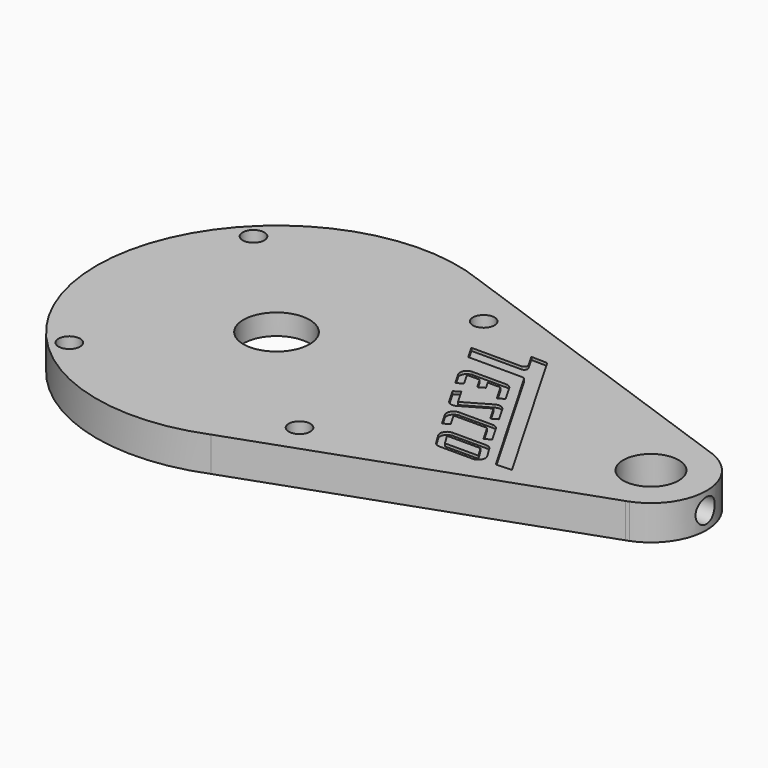
from build123d import *

# Parameters (mm, degrees)
F1_DEPTH  = 15.875
F3_DEPTH  = 15.876
F4_R      = 15.1511
F5_DEPTH  = 15.876
F6_R      = 57.277
F7_DEPTH  = 6.35
F8_R      = 4.953
F9_DEPTH  = 15.876
F11_DEPTH = 9.525
F13_R     = 5.4864
F14_DEPTH = 15.875
F16_DEPTH = 1.27


with BuildPart() as f1:
    # F0 (on Top) → F1 (new body)
    with BuildSketch(Plane.XY):
        with BuildLine():
            Line((261.564905, -58.477244), (113.604486, -6.008632))
            ThreePointArc((113.604486, -6.008632), (0, -82.6643), (113.604486, -159.319968))
            Line((113.604486, -159.319968), (261.564905, -106.851356))
            Line((261.564905, -106.851356), (263.024603, -106.333729))
            ThreePointArc((263.024603, -106.333729), (279.2095, -82.6643), (263.024603, -58.994871))
            Line((263.024603, -58.994871), (261.564905, -58.477244))
        make_face()
        with BuildLine():
            ThreePointArc((263.024603, -58.994871), (262.2987, -58.724929), (261.564905, -58.477244))
            Line((261.564905, -58.477244), (263.024603, -58.994871))
        make_face()
        with BuildLine():
            Line((263.024603, -106.333729), (261.564905, -106.851356))
            ThreePointArc((261.564905, -106.851356), (262.2987, -106.603671), (263.024603, -106.333729))
        make_face()
    extrude(amount=F1_DEPTH)

    # F2 (on face) → F3 (cut, through all)
    with BuildSketch(Plane.XY.offset(15.875)):
        with BuildLine():
            ThreePointArc((266.5095, -82.6643), (253.8095, -69.9643), (241.1095, -82.6643))
            Line((241.1095, -82.6643), (266.5095, -82.6643))
        make_face()
        with BuildLine():
            Line((266.5095, -82.6643), (241.1095, -82.6643))
            ThreePointArc((241.1095, -82.6643), (253.8095, -95.3643), (266.5095, -82.6643))
        make_face()
    extrude(amount=-F3_DEPTH, mode=Mode.SUBTRACT)

    # F4 (on face) → F5 (cut, through all)
    with BuildSketch(Plane.XY.offset(15.875)):
        with Locations((82.3595, -82.6643)):
            Circle(F4_R)
    extrude(amount=-F5_DEPTH, mode=Mode.SUBTRACT)

    # F6 (on face) → F7 (cut)
    with BuildSketch(Plane(origin=(0, 0, 0), x_dir=(1, 0, 0), z_dir=(0, 0, -1))):
        with Locations((82.3595, 82.6643)):
            Circle(F6_R)
    extrude(amount=-F7_DEPTH, mode=Mode.SUBTRACT)

    # F8 (on face) → F9 (cut, through all)
    with BuildSketch(Plane(origin=(0, 0, 0), x_dir=(1, 0, 0), z_dir=(0, 0, -1))):
        with Locations((29.6545, 135.3693)):
            Circle(F8_R)
        with Locations((135.0645, 135.3693)):
            Circle(F8_R)
        with Locations((135.0645, 29.9593)):
            Circle(F8_R)
        with Locations((29.6545, 29.9593)):
            Circle(F8_R)
    extrude(amount=-F9_DEPTH, mode=Mode.SUBTRACT)

    # F10 (on face) → F11 (cut)
    with BuildSketch(Plane(origin=(0, 0, 0), x_dir=(1, 0, 0), z_dir=(0, 0, -1))):
        with BuildLine():
            ThreePointArc((57.15, 82.6643), (56.220064, 84.909364), (53.975, 85.8393))
            Line((53.975, 85.8393), (0.060996, 85.8393))
            Line((0.060996, 85.8393), (-2.488084, 85.8393))
            Line((-2.488084, 85.8393), (-2.488084, 79.4893))
            Line((-2.488084, 79.4893), (-1.513804, 79.4893))
            Line((-1.513804, 79.4893), (53.975, 79.4893))
            ThreePointArc((53.975, 79.4893), (56.220064, 80.419236), (57.15, 82.6643))
        make_face()
    extrude(amount=-F11_DEPTH, mode=Mode.SUBTRACT)

    # F13 (on offset) → F14 (cut)
    with BuildSketch(Plane.YZ.offset(279.4)):
        with Locations((-82.6643, 7.9375)):
            Circle(F13_R)
    extrude(amount=-F14_DEPTH, mode=Mode.SUBTRACT)

    # F15 (on face) → F16 (cut)
    with BuildSketch(Plane.XY.offset(15.875)):
        with BuildLine():
            Line((167.299575, -48.660433), (144.385987, -48.660433))
            Line((144.385987, -48.660433), (148.052161, -55.010433))
            Line((148.052161, -55.010433), (172.798837, -55.010433))
            ThreePointArc((172.798837, -55.010433), (173.592587, -55.223117), (174.173652, -55.804183))
            Line((174.173652, -55.804183), (207.672688, -113.826216))
            Line((207.672688, -113.826216), (214.81237, -113.492506))
            Line((214.81237, -113.492506), (172.90237, -40.902257))
            Line((172.90237, -40.902257), (165.468663, -40.726699))
            Line((165.468663, -40.726699), (168.674391, -46.279183))
            ThreePointArc((168.674391, -46.279183), (168.674391, -47.866683), (167.299575, -48.660433))
        make_face()
        with BuildLine():
            Line((165.826053, -66.122933), (171.684878, -66.122933))
            Line((171.684878, -66.122933), (175.980346, -73.562901))
            Line((175.980346, -73.562901), (177.355162, -72.769151))
            Line((177.355162, -72.769151), (178.729977, -71.975401))
            Line((178.729977, -71.975401), (174.434509, -64.535433))
            ThreePointArc((174.434509, -64.535433), (173.272378, -63.373302), (171.684878, -62.947933))
            Line((171.684878, -62.947933), (156.301053, -62.947933))
            ThreePointArc((156.301053, -62.947933), (153.551422, -64.535433), (153.551422, -67.710433))
            Line((153.551422, -67.710433), (156.930346, -73.562901))
            Line((156.930346, -73.562901), (158.305162, -72.769151))
            Line((158.305162, -72.769151), (159.679977, -71.975401))
            Line((159.679977, -71.975401), (156.301053, -66.122933))
            Line((156.301053, -66.122933), (162.159878, -66.122933))
            Line((162.159878, -66.122933), (165.095358, -71.207332))
            Line((165.095358, -71.207332), (167.844988, -69.619832))
            Line((167.844988, -69.619832), (165.826053, -66.122933))
        make_face()
        with BuildLine():
            Line((166.832487, -84.363913), (162.863737, -77.489836))
            Line((162.863737, -77.489836), (160.114107, -79.077336))
            Line((160.114107, -79.077336), (164.082857, -85.951413))
            ThreePointArc((164.082857, -85.951413), (166.010737, -87.430727), (168.419987, -87.113543))
            Line((168.419987, -87.113543), (179.957857, -80.452151))
            Line((179.957857, -80.452151), (183.926607, -87.326228))
            Line((183.926607, -87.326228), (186.676237, -85.738728))
            Line((186.676237, -85.738728), (182.707487, -78.864651))
            ThreePointArc((182.707487, -78.864651), (180.779607, -77.385337), (178.370357, -77.702521))
            Line((178.370357, -77.702521), (166.832487, -84.363913))
        make_face()
        with BuildLine():
            Line((172.176053, -93.619239), (187.559878, -93.619239))
            Line((187.559878, -93.619239), (191.864107, -101.074381))
            Line((191.864107, -101.074381), (194.613737, -99.486881))
            Line((194.613737, -99.486881), (190.309509, -92.031739))
            ThreePointArc((190.309509, -92.031739), (189.147378, -90.869609), (187.559878, -90.444239))
            Line((187.559878, -90.444239), (172.176053, -90.444239))
            ThreePointArc((172.176053, -90.444239), (169.426422, -92.031739), (169.426422, -95.206739))
            Line((169.426422, -95.206739), (172.814107, -101.074381))
            Line((172.814107, -101.074381), (175.563737, -99.486881))
            Line((175.563737, -99.486881), (172.176053, -93.619239))
        make_face()
        with BuildLine():
            Line((201.252318, -110.681192), (198.234108, -105.717761))
            ThreePointArc((198.234108, -105.717761), (197.077421, -104.599884), (195.521297, -104.192393))
            Line((195.521297, -104.192393), (180.187231, -104.192393))
            ThreePointArc((180.187231, -104.192393), (177.419723, -105.811268), (177.474421, -109.017024))
            Line((177.474421, -109.017024), (180.492631, -113.980455))
            ThreePointArc((180.492631, -113.980455), (181.649318, -115.098332), (183.205442, -115.505824))
            Line((183.205442, -115.505824), (198.539508, -115.505824))
            ThreePointArc((198.539508, -115.505824), (201.307016, -113.886948), (201.252318, -110.681192))
        make_face()
        Polygon((183.205442, -112.330824), (180.187231, -107.367393), (195.521297, -107.367393), (198.539508, -112.330824), align=None, mode=Mode.SUBTRACT)
    extrude(amount=-F16_DEPTH, mode=Mode.SUBTRACT)


solid = f1.part
